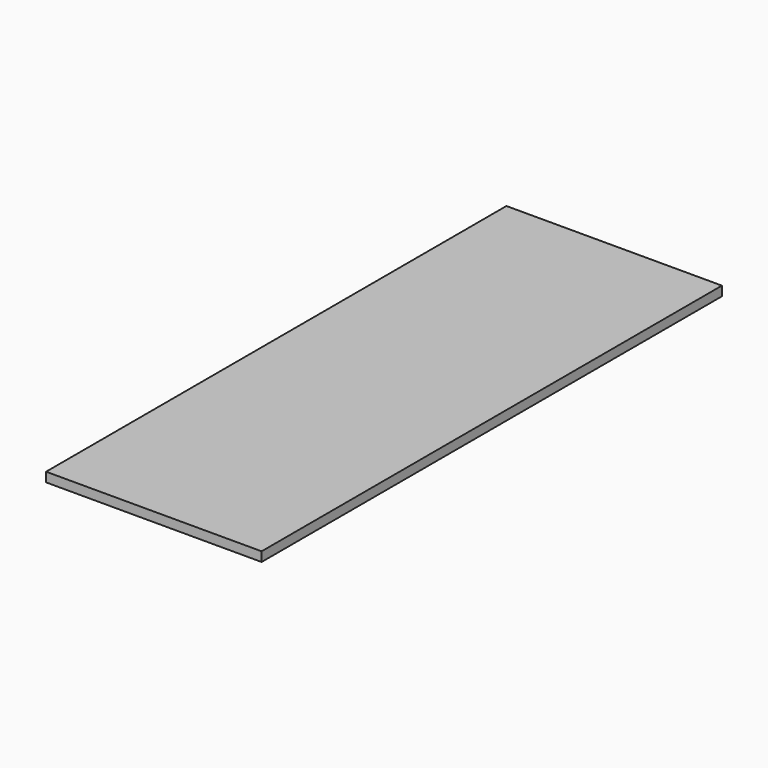
from build123d import *

# Parameters (mm, degrees)
F0_W     = 412
F0_H     = 1100
F1_DEPTH = 18
F2_R     = 2.5
F3_DEPTH = 15


with BuildPart() as f1:
    # F0 (on Top) → F1 (new body)
    with BuildSketch(Plane.XY):
        with Locations((0.382904, 459.049425)):
            Rectangle(F0_W, F0_H)
    extrude(amount=F1_DEPTH)

    # F2 (on face) → F3 (cut)
    with BuildSketch(Plane(origin=(0, 0, 0), x_dir=(1, 0, 0), z_dir=(0, 0, -1))):
        with Locations((-190.617096, -884.049425)):
            Circle(F2_R)
        with Locations((-170.617096, -884.049425)):
            Circle(F2_R)
        with Locations((156.382904, -262.049425)):
            Circle(F2_R)
        with Locations((156.382904, -242.049425)):
            Circle(F2_R)
        with Locations((156.382904, 55.950575)):
            Circle(F2_R)
        with Locations((156.382904, 75.950575)):
            Circle(F2_R)
        with Locations((-170.617096, 15.950575)):
            Circle(F2_R)
        with Locations((-190.617096, 15.950575)):
            Circle(F2_R)
    extrude(amount=-F3_DEPTH, mode=Mode.SUBTRACT)


solid = f1.part
